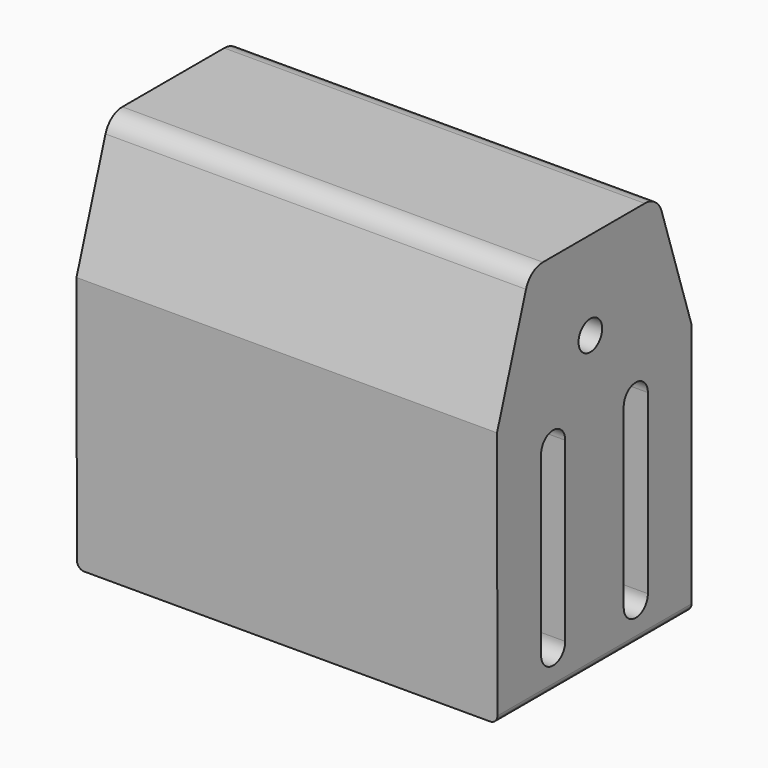
from build123d import *

# Parameters (mm, degrees)
F0_R     = 6.35
F1_DEPTH = 180.975
F2_R     = 3.175


with BuildPart() as f1:
    # F0 (on Right) → F1 (new body)
    with BuildSketch(Plane.YZ):
        with BuildLine():
            Line((-50.2002, 45.897277), (-49.975023, -64.60664))
            Line((-49.975023, -64.60664), (54.418977, -64.60664))
            Line((54.418977, -64.60664), (54.419404, 44.399161))
            Line((54.419404, 44.399161), (38.33179, 93.911747))
            ThreePointArc((38.33179, 93.911747), (34.871631, 98.674247), (29.272976, 100.49336))
            Line((29.272976, 100.49336), (-25.54054, 100.49336))
            ThreePointArc((-25.54054, 100.49336), (-31.139195, 98.674247), (-34.599353, 93.911747))
            Line((-34.599353, 93.911747), (-50.2002, 45.897277))
        make_face()
        with BuildLine():
            ThreePointArc((-13.507629, -48.053298), (-20.003023, -54.548692), (-26.498417, -48.053298))
            Line((-26.498417, -48.053298), (-26.498417, 28.146702))
            ThreePointArc((-26.498417, 28.146702), (-20.003023, 34.642096), (-13.507629, 28.146702))
            Line((-13.507629, 28.146702), (-13.507629, -48.053298))
        make_face(mode=Mode.SUBTRACT)
        with BuildLine():
            ThreePointArc((30.942371, -48.053298), (24.446977, -54.548692), (17.951583, -48.053298))
            Line((17.951583, -48.053298), (17.951583, 28.146702))
            ThreePointArc((17.951583, 28.146702), (24.446977, 34.642096), (30.942371, 28.146702))
            Line((30.942371, 28.146702), (30.942371, -48.053298))
        make_face(mode=Mode.SUBTRACT)
        with Locations((0, 62.39336)):
            Circle(F0_R, mode=Mode.SUBTRACT)
    extrude(amount=F1_DEPTH)

    # F2
    f2_edges = [f1.edges().sort_by_distance(p)[0] for p in [
        (0, 2.221977, -64.60664),
        (180.975, 2.221977, -64.60664),
    ]]
    fillet(f2_edges, radius=F2_R)


solid = f1.part
